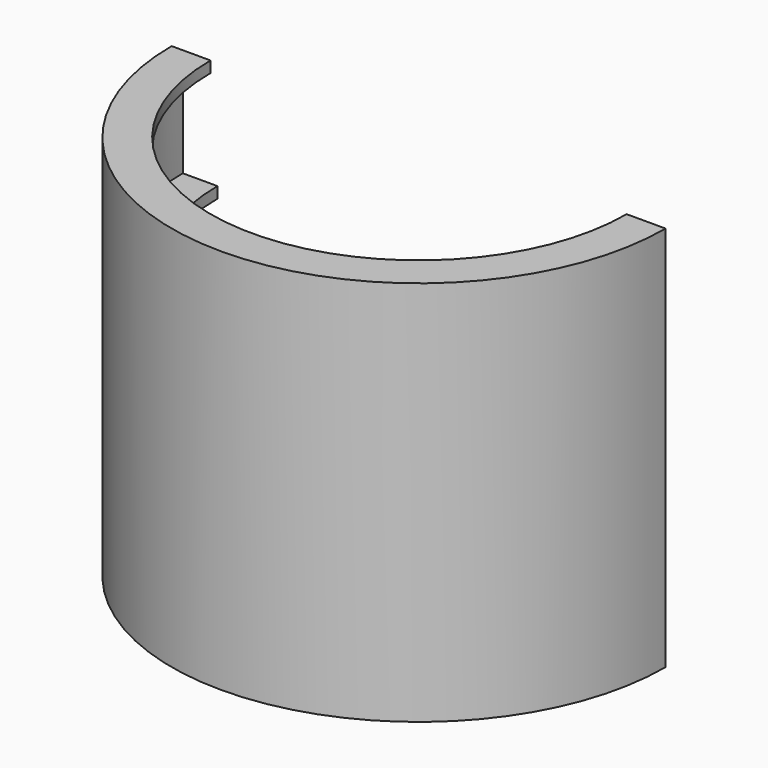
from build123d import *

# Parameters (mm, degrees)
REVOLUTION_ANGLE = -180
PAD_DEPTH        = 7.5
PAD001_DEPTH     = 17.5
PAD002_DEPTH     = 17.5


with BuildPart() as part:
    # Sketch → Revolution (revolve)
    with BuildSketch(Plane.XZ):
        Polygon((37.45, 69.5), (37.45, 67.5), (42.45, 67.5), (42.45, 50.0000000001), (36.2, 50.0000000001), (36.2, 48.0000000001), (41.2, 48.0000000001), (41.2, 40.5000000001), (36.2, 40.5000000001), (36.2, 38.5000000001), (42.45, 38.5000000001), (42.45, 21.0000000001), (36.2, 21.0000000001), (36.2, 19.0000000001), (41.2, 19.0000000001), (41.2, 11.5000000001), (36.2, 11.5000000001), (36.2, 9.5000000001), (42.45, 9.5000000001), (42.45, 2.0000000001), (37.45, 2.0000000001), (37.45, 0), (44.45, 0), (44.45, 69.5), align=None)
    revolve(axis=Axis((0, 0, 0), (0, 0, 1)), revolution_arc=REVOLUTION_ANGLE)

    # Sketch001 (on DatumPlane) → Pad (new body)
    with BuildSketch(Plane.XY.offset(2)):
        with BuildLine():
            ThreePointArc((-1.481483635, -42.424140607), (0, -42.45), (1.481483635, -42.424140607))
            Line((1.481483635, -42.424140607), (1.3767851449, -39.4259681259))
            ThreePointArc((-1.3767851449, -39.4259681259), (0, -39.45), (1.3767851449, -39.4259681259))
            Line((-1.3767851449, -39.4259681259), (-1.481483635, -42.424140607))
        make_face()
    extrude(amount=PAD_DEPTH)

    # Sketch002 (on DatumPlane) → Pad001 (join)
    with BuildSketch(Plane.XY.offset(21)):
        with BuildLine():
            ThreePointArc((-1.4815012393, -42.4241399922), (0, -42.45), (1.4815012393, -42.4241399922))
            Line((1.4815012393, -42.4241399922), (1.3768015051, -39.4259675545))
            ThreePointArc((-1.3768015051, -39.4259675545), (0, -39.45), (1.3768015051, -39.4259675545))
            Line((-1.3768015051, -39.4259675545), (-1.4815012393, -42.4241399922))
        make_face()
    extrude(amount=PAD001_DEPTH)

    # Sketch003 (on DatumPlane) → Pad002 (join)
    with BuildSketch(Plane.XY.offset(50)):
        with BuildLine():
            ThreePointArc((-1.4815012393, -42.4241399922), (0, -42.45), (1.4815012393, -42.4241399922))
            Line((1.4815012393, -42.4241399922), (1.3768015051, -39.4259675545))
            ThreePointArc((-1.3768015051, -39.4259675545), (0, -39.45), (1.3768015051, -39.4259675545))
            Line((-1.3768015051, -39.4259675545), (-1.4815012393, -42.4241399922))
        make_face()
    extrude(amount=PAD002_DEPTH)


solid = part.part
